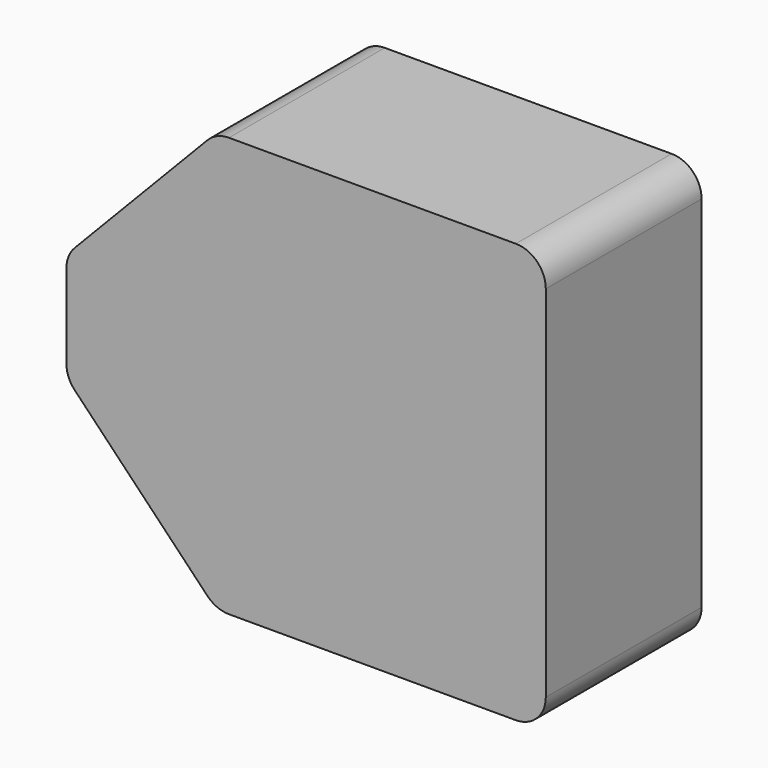
from build123d import *

# Parameters (mm, degrees)
F1_DEPTH = 1.27
F3_DEPTH = 76.2
F5_DEPTH = 5.08
F6_R     = 12.7
F7_R     = 12.7


with BuildPart() as f1:
    # F0 (on Front) → F1 (new body)
    with BuildSketch(Plane.XZ):
        Polygon((-25.4, 22.8833369911), (-25.4, 0), (-25.4, -22.8833369911), (38.1, -88.9), (177.8, -88.9), (177.8, 0), (177.8, 88.9), (38.1, 88.9), align=None)
        with BuildLine():
            Line((0, 6.35), (12.7, 6.35))
            Line((12.7, 6.35), (63.5, 63.5))
            Line((63.5, 63.5), (152.4, 63.5))
            Line((152.4, 63.5), (152.4, 0))
            Line((152.4, 0), (152.4, -63.5))
            Line((152.4, -63.5), (63.5, -63.5))
            Line((63.5, -63.5), (12.7, -6.35))
            Line((12.7, -6.35), (0, -6.35))
            ThreePointArc((0, -6.35), (-6.35, 0), (0, 6.35))
        make_face(mode=Mode.SUBTRACT)
    extrude(amount=F1_DEPTH)

    # F2 (on face) → F3 (join)
    with BuildSketch(Plane.XZ.offset(1.27)):
        Polygon((38.1, 88.9), (-25.4, 22.8833369911), (-25.4, -22.8833369911), (38.1, -88.9), (177.8, -88.9), (177.8, 88.9), align=None)
        Polygon((40.2622562786, -83.82), (-20.32, -20.8367181565), (-20.32, 20.8367181565), (40.2622562786, 83.82), (172.72, 83.82), (172.72, -83.82), align=None, mode=Mode.SUBTRACT)
    extrude(amount=F3_DEPTH)

    # F4 (on face) → F5 (join)
    with BuildSketch(Plane.XZ.offset(77.47)):
        Polygon((177.8, 88.9), (38.1, 88.9), (-25.4, 22.8833369911), (-25.4, -22.8833369911), (38.1, -88.9), (177.8, -88.9), align=None)
        Polygon((172.72, -83.82), (40.2622562786, -83.82), (-20.32, -20.8367181565), (-20.32, 20.8367181565), (40.2622562786, 83.82), (172.72, 83.82), align=None, mode=Mode.SUBTRACT)
        Polygon((-20.32, -20.8367181565), (40.2622562786, -83.82), (172.72, -83.82), (172.72, 83.82), (40.2622562786, 83.82), (-20.32, 20.8367181565), align=None)
    extrude(amount=F5_DEPTH)

    # F6
    f6_edges = [f1.edges().sort_by_distance(p)[0] for p in [
        (-25.4, -41.275, 22.883337),
        (-25.4, -41.275, -22.883337),
        (38.1, -41.275, 88.9),
        (38.1, -41.275, -88.9),
    ]]
    fillet(f6_edges, radius=F6_R)

    # F7
    f7_edges = [f1.edges().sort_by_distance(p)[0] for p in [
        (177.8, -41.275, 88.9),
        (177.8, -41.275, -88.9),
    ]]
    fillet(f7_edges, radius=F7_R)


solid = f1.part
